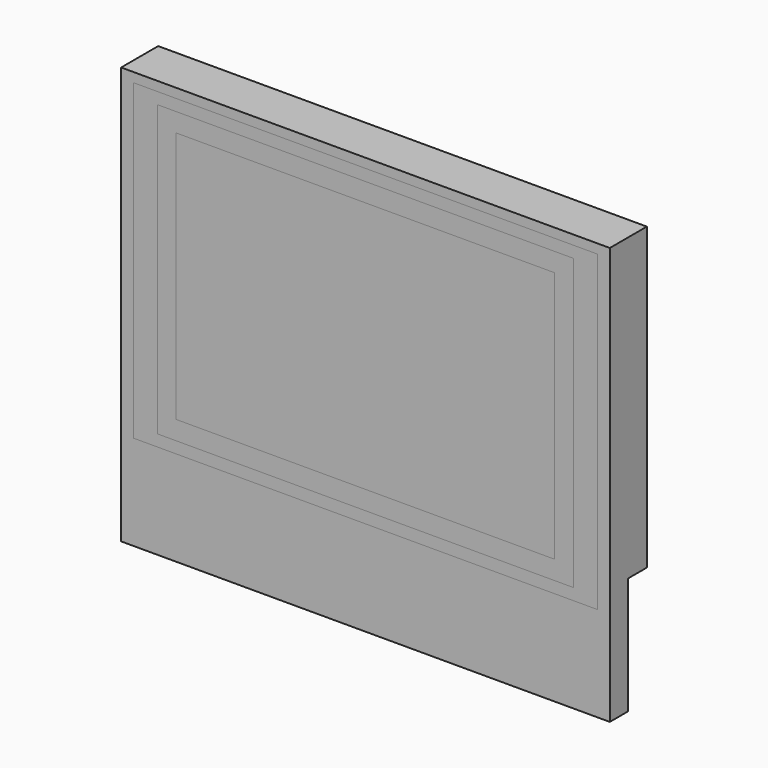
from build123d import *

# Parameters (mm, degrees)
F0_W     = 20.14
F0_H     = 13.42
F1_DEPTH = 2.4638
F2_W     = 22.14
F2_H     = 15.42
F2_W_2   = 20.14
F2_H_2   = 13.42
F3_DEPTH = 2.4638
F4_W     = 24.7
F4_H     = 16.65
F4_W_2   = 22.14
F4_H_2   = 15.42
F5_DEPTH = 2.4638
F6_W     = 26
F6_H     = 22.2
F6_W_2   = 24.7
F6_H_2   = 16.65
F7_DEPTH = 2.4638
F9_DEPTH = 1.27


with BuildPart() as f1:
    # F0 (on Front) → F1 (new body)
    with BuildSketch(Plane.XZ):
        Rectangle(F0_W, F0_H)
    extrude(amount=F1_DEPTH)


with BuildPart() as f3:
    # F2 (on face) → F3 (new body)
    with BuildSketch(Plane.XZ.offset(2.4638)):
        Rectangle(F2_W, F2_H)
        Rectangle(F2_W_2, F2_H_2, mode=Mode.SUBTRACT)
    extrude(amount=-F3_DEPTH)


with BuildPart() as f5:
    # F4 (on face) → F5 (new body)
    with BuildSketch(Plane.XZ.offset(2.4638)):
        Rectangle(F4_W, F4_H)
        Rectangle(F4_W_2, F4_H_2, mode=Mode.SUBTRACT)
    extrude(amount=-F5_DEPTH)


with BuildPart() as f7:
    # F6 (on face) → F7 (new body)
    with BuildSketch(Plane.XZ.offset(2.4638)):
        with Locations((0, -2.275)):
            Rectangle(F6_W, F6_H)
        Rectangle(F6_W_2, F6_H_2, mode=Mode.SUBTRACT)
    extrude(amount=-F7_DEPTH)


with BuildPart() as f9_tool:
    # F8 (on Front) → F9 (new body)
    with BuildSketch(Plane.XZ):
        Polygon((10, 6.825), (-10, 6.825), (-10, -7.148381), (-13, -7.148381), (-13, -13.375), (13, -13.375), (13, -7.148381), (10, -7.148381), align=None)
    extrude(amount=F9_DEPTH)


with BuildPart() as f1_1:
    add(f1.part)

    # F9: cut by f9_tool
    add(f9_tool.part, mode=Mode.SUBTRACT)


with BuildPart() as f3_1:
    add(f3.part)

    # F9: cut by f9_tool
    add(f9_tool.part, mode=Mode.SUBTRACT)


with BuildPart() as f5_1:
    add(f5.part)

    # F9: cut by f9_tool
    add(f9_tool.part, mode=Mode.SUBTRACT)


with BuildPart() as f7_1:
    add(f7.part)

    # F9: cut by f9_tool
    add(f9_tool.part, mode=Mode.SUBTRACT)


solid = Compound([f1_1.part, f3_1.part, f5_1.part, f7_1.part])
